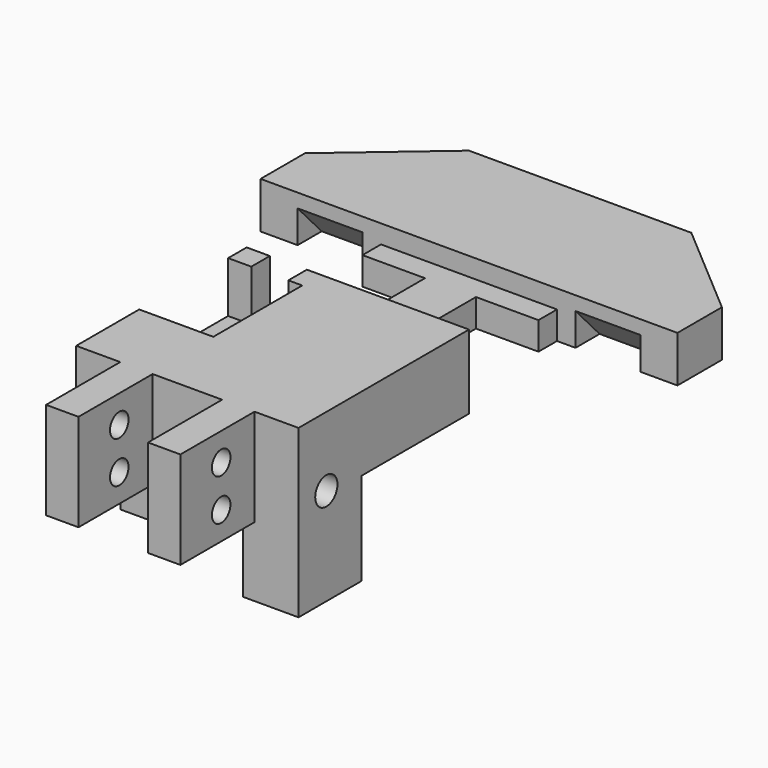
from build123d import *

# Parameters (mm, degrees)
F0_W      = 48
F0_H      = 46
F1_DEPTH  = 16
F2_W      = 11
F2_H      = 25
F3_DEPTH  = 6
F5_DEPTH  = 10
F6_W      = 12
F6_H      = 5
F6_H_2    = 17
F7_DEPTH  = 20
F8_W      = 48
F8_H      = 15
F9_DEPTH  = 5
F10_W     = 7
F10_H     = 21
F11_DEPTH = 20
F13_DEPTH = 11
F14_R     = 2.5
F15_DEPTH = 59.501
F16_R     = 3
F17_DEPTH = 69.001
F18_R     = 2.25
F19_DEPTH = 26.001
F21_DEPTH = 2
F24_DEPTH = 14
F27_DEPTH = 14
F28_W     = 20
F28_H     = 4
F29_DEPTH = 8


with BuildPart() as f1:
    # F0 (on Top) → F1 (new body)
    with BuildSketch(Plane.XY):
        with Locations((0, -23)):
            Rectangle(F0_W, F0_H)
    extrude(amount=F1_DEPTH)

    # F2 (on Top) → F3 (join)
    with BuildSketch(Plane.XY):
        with Locations((0, 12.5)):
            Rectangle(F2_W, F2_H)
        Polygon((-19, 25), (-5.5, 25), (5.5, 25), (19, 25), (19, 30), (-19, 30), align=None)
    extrude(amount=F3_DEPTH)

    # F4 (on Top) → F5 (join)
    with BuildSketch(Plane.XY):
        Polygon((-45, 30), (0, 30), (45, 30), (45, 42), (24, 60), (-24, 60), (-45, 42), align=None)
    extrude(amount=F5_DEPTH)

    # F6 (on face) → F7 (join)
    with BuildSketch(Plane(origin=(0, 0, 0), x_dir=(1, 0, 0), z_dir=(0, 0, -1))):
        with Locations((-18, 31.5)):
            Rectangle(F6_W, F6_H)
        with Locations((18, 37.5)):
            Rectangle(F6_W, F6_H_2)
    extrude(amount=F7_DEPTH)

    # F8 (on face) → F9 (join)
    with BuildSketch(Plane(origin=(0, 0, 0), x_dir=(1, 0, 0), z_dir=(0, 0, -1))):
        with Locations((0, 38.5)):
            Rectangle(F8_W, F8_H)
    extrude(amount=F9_DEPTH)

    # F10 (on face) → F11 (join)
    with BuildSketch(Plane.XZ.offset(46)):
        with Locations((-11, 5.5)):
            Rectangle(F10_W, F10_H)
        with Locations((11, 5.5)):
            Rectangle(F10_W, F10_H)
    extrude(amount=F11_DEPTH)

    # F12 (on face) → F13 (cut)
    with BuildSketch(Plane.XY.offset(16)):
        Polygon((-11, 0), (-19, 0), (-19, -5), (-24, -5), (-24, -29), (-8, -29), (-8, -5), (-11, -5), align=None)
    extrude(amount=-F13_DEPTH, mode=Mode.SUBTRACT)

    # F14 (on face) → F15 (cut, through all)
    with BuildSketch(Plane(origin=(-14.5, 0, 0), x_dir=(0, -1, 0), z_dir=(-1, 0, 0))):
        with Locations((55, 10)):
            Circle(F14_R)
        with Locations((55, 1)):
            Circle(F14_R)
    extrude(amount=-F15_DEPTH, mode=Mode.SUBTRACT)

    # F16 (on face) → F17 (cut, through all)
    with BuildSketch(Plane(origin=(-24, 0, 0), x_dir=(0, -1, 0), z_dir=(-1, 0, 0))):
        with Locations((38.5, 1)):
            Circle(F16_R)
    extrude(amount=-F17_DEPTH, mode=Mode.SUBTRACT)

    # F18 (on face) → F19 (cut, through all)
    with BuildSketch(Plane.XY.offset(6)):
        with Locations((0, 6)):
            Circle(F18_R)
    extrude(amount=-F19_DEPTH, mode=Mode.SUBTRACT)

    # F20 (on face) → F21 (cut)
    with BuildSketch(Plane.XY.offset(6)):
        with BuildLine():
            Line((1.25, 0.464466), (1.25, 2.464466))
            ThreePointArc((1.25, 2.464466), (0, 9.75), (-1.25, 2.464466))
            Line((-1.25, 2.464466), (-1.25, 0.464466))
            Line((-1.25, 0.464466), (1.25, 0.464466))
        make_face()
    extrude(amount=-F21_DEPTH, mode=Mode.SUBTRACT)

    # F23 (on offset) → F24 (cut)
    with BuildSketch(Plane.YZ.offset(23)):
        Polygon((30, 0), (36.5, 0), (30, 7), align=None)
    extrude(amount=F24_DEPTH, mode=Mode.SUBTRACT)

    # F26 (on offset) → F27 (cut)
    with BuildSketch(Plane.YZ.offset(-23)):
        Polygon((30, 0), (36.5, 0), (30, 7), align=None)
    extrude(amount=-F27_DEPTH, mode=Mode.SUBTRACT)

    # F28 (on face) → F29 (join)
    with BuildSketch(Plane(origin=(0, 0, 0), x_dir=(1, 0, 0), z_dir=(0, 0, -1))):
        with Locations((0.275901, -55)):
            Rectangle(F28_W, F28_H)
    extrude(amount=F29_DEPTH)


solid = f1.part
